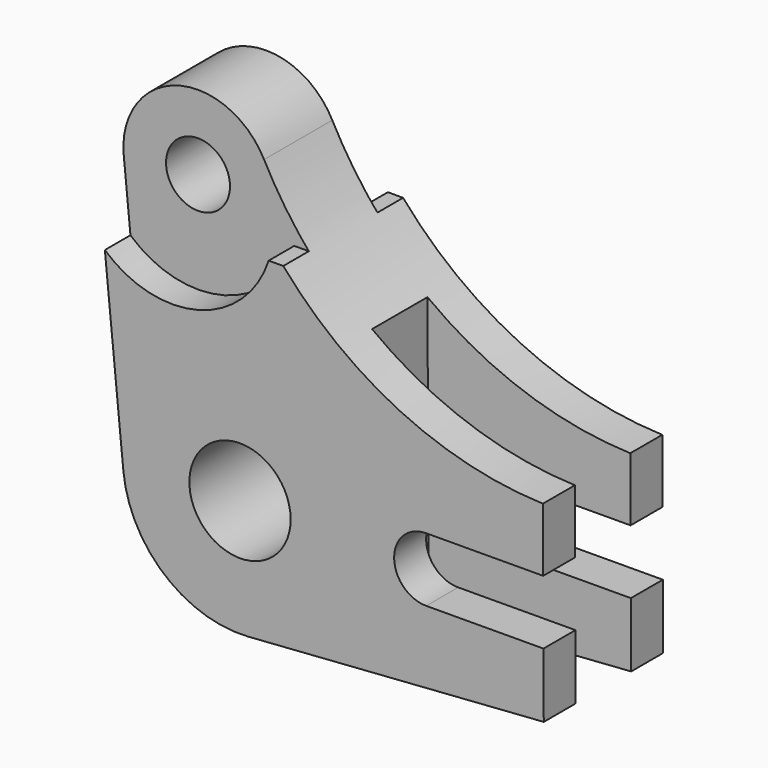
from build123d import *

# Parameters (mm, degrees)
F0_R      = 9.5
F1_DEPTH  = 28
F3_DEPTH  = 6
F5_R      = 6
F6_DEPTH  = 22.001
F7_W      = 13
F7_H      = 63.7986809015
F8_DEPTH  = 38
F10_DEPTH = 6


with BuildPart() as f1:
    # F0 (on Front) → F1 (new body)
    with BuildSketch(Plane.XZ):
        with BuildLine():
            Line((55.3299104147, -19.4800459675), (55.27629582, -7.5791569764))
            ThreePointArc((55.27629582, -7.5791569764), (21.8781261357, 2.6281537564), (-1.8464281096, 28.2557259496))
            ThreePointArc((-1.8464281096, 28.2557259496), (-18.2536420422, 35.1646349887), (-28.1767553192, 20.3841912865))
            Line((-28.1767553192, 20.3841912865), (-23.4563932978, -27.7273269018))
            ThreePointArc((-23.4563932978, -27.7273269018), (-15.7507812014, -42.3917991939), (0, -47.5236698985))
            Line((0, -47.5236698985), (55.4384774708, -43.5787916566))
            Line((55.4384774708, -43.5787916566), (55.3839715136, -31.4800459675))
            Line((55.3839715136, -31.4800459675), (33.3841947645, -31.5791569764))
            ThreePointArc((33.3841947645, -31.5791569764), (27.3571642151, -25.6061875258), (33.3301336657, -19.5791569764))
            Line((33.3301336657, -19.5791569764), (55.3299104147, -19.4800459675))
        make_face()
        with Locations((-1.5615225292, -25.5791569764)):
            Circle(F0_R, mode=Mode.SUBTRACT)
    extrude(amount=F1_DEPTH)

    # F2 (on face) → F3 (cut)
    with BuildSketch(Plane.XZ.offset(28)):
        with BuildLine():
            ThreePointArc((4.462620132, 18.4232597398), (4.6827707797, 20.0807656893), (4.7563442608, 21.7512085118))
            ThreePointArc((4.7563442608, 21.7512085118), (-21.9929159378, 39.0990892578), (-26.9224943051, 7.6003409546))
            Line((-26.9224943051, 7.6003409546), (-28.1767553192, 20.3841912865))
            ThreePointArc((-28.1767553192, 20.3841912865), (-18.2536420422, 35.1646349887), (-1.8464281096, 28.2557259496))
            ThreePointArc((-1.8464281096, 28.2557259496), (1.0933811252, 23.2017200271), (4.462620132, 18.4232597398))
        make_face()
        with BuildLine():
            ThreePointArc((6.5586960689, 15.8448641244), (5.4946710371, 17.1210654398), (4.462620132, 18.4232597398))
            ThreePointArc((4.462620132, 18.4232597398), (4.1823746256, 17.1164048487), (3.8109479717, 15.8324852676))
            Line((3.8109479717, 15.8324852676), (6.5586960689, 15.8448641244))
        make_face()
        with BuildLine():
            Line((-28.1767553192, 20.3841912865), (-26.9224943051, 7.6003409546))
            ThreePointArc((-26.9224943051, 7.6003409546), (-9.3276855683, 3.3981913953), (3.8109479717, 15.8324852676))
            ThreePointArc((3.8109479717, 15.8324852676), (4.1823746256, 17.1164048487), (4.462620132, 18.4232597398))
            ThreePointArc((4.462620132, 18.4232597398), (1.0933811252, 23.2017200271), (-1.8464281096, 28.2557259496))
            ThreePointArc((-1.8464281096, 28.2557259496), (-18.2536420422, 35.1646349887), (-28.1767553192, 20.3841912865))
        make_face()
    extrude(amount=-F3_DEPTH, mode=Mode.SUBTRACT)

    # F5 (on face) → F6 (cut, through all)
    with BuildSketch(Plane.XZ.offset(22)):
        with Locations((-14.2436557392, 21.7512085118)):
            Circle(F5_R)
    extrude(amount=-F6_DEPTH, mode=Mode.SUBTRACT)

    # F7 (on face) → F8 (cut)
    with BuildSketch(Plane(origin=(55.2410298601, 0, 0.248865898), x_dir=(0, 1, 0), z_dir=(0.9999898522, 0, 0.0045050459))):
        with Locations((-14, -22.6326100528)):
            Rectangle(F7_W, F7_H)
    extrude(amount=-F8_DEPTH, mode=Mode.SUBTRACT)

    # F9 (on face) → F10 (cut)
    with BuildSketch(Plane(origin=(0, 0, 0), x_dir=(-1, 0, 0), z_dir=(0, 1, 0))):
        with BuildLine():
            ThreePointArc((-3.7841006381, 15.7512085118), (17.2827862753, 2.9958443302), (33.2436557392, 21.7512085118))
            ThreePointArc((33.2436557392, 21.7512085118), (11.2045252031, 40.5065726934), (-3.7841006381, 15.7512085118))
        make_face()
        with BuildLine():
            ThreePointArc((-3.7841006381, 15.7512085118), (-4.1718878517, 17.0749114458), (-4.462620132, 18.4232597398))
            ThreePointArc((-4.462620132, 18.4232597398), (-5.5335871793, 17.0732394365), (-6.6389194686, 15.7512085118))
            Line((-6.6389194686, 15.7512085118), (-3.7841006381, 15.7512085118))
        make_face()
    extrude(amount=-F10_DEPTH, mode=Mode.SUBTRACT)


solid = f1.part
